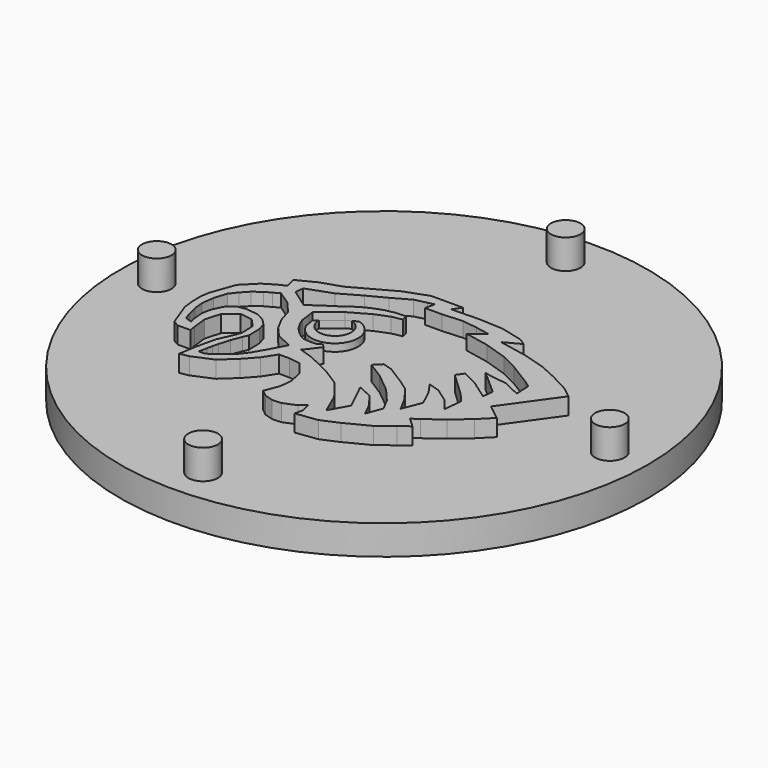
from build123d import *

# Parameters (mm, degrees)
F0_R      = 15.875
F1_DEPTH  = 1.778
F3_R      = 0.889
F4_DEPTH  = 1.778
F6_DEPTH  = 1.016
F8_DEPTH  = 0.889
F10_DEPTH = 0.762
F12_DEPTH = 0.4482
F14_DEPTH = 0.4214


with BuildPart() as f1:
    # F0 (on Top) → F1 (new body)
    with BuildSketch(Plane.XY):
        Circle(F0_R)
    extrude(amount=-F1_DEPTH)

    # F3 (on face) → F4 (join)
    with BuildSketch(Plane.XY):
        with Locations((0, 13.652203)):
            Circle(F3_R)
        with Locations((-13.659894, -0.015021)):
            Circle(F3_R)
        with Locations((0.062219, -13.682245)):
            Circle(F3_R)
        with Locations((13.674476, -0.124876)):
            Circle(F3_R)
    extrude(amount=F4_DEPTH)

    # F5 (on face) → F6 (join)
    with BuildSketch(Plane.XY):
        Polygon((-9.997153, -1.83525), (-9.927131, -2.552512), (-9.631853, -3.357332), (-9.364566, -4.058959), (-9.019321, -4.259424), (-8.235319, -4.254402), (-8.302191, -3.868135), (-8.403477, -2.990311), (-8.133378, -2.078724), (-7.424366, -1.504762), (-6.681591, -1.606049), (-6.208917, -2.112486), (-6.175154, -2.990311), (-6.411492, -3.564273), (-6.715354, -4.239522), (-6.985454, -5.421209), (-7.154267, -6.467846), (-6.614066, -6.366558), (-5.43238, -5.860121), (-4.588318, -5.083584), (-3.946831, -4.374572), (-3.440394, -3.598035), (-2.798907, -3.598035), (-2.123657, -3.699322), (-1.48217, -4.509622), (-1.313358, -5.353684), (-1.380883, -6.062696), (-1.718507, -6.94052), (-1.34712, -7.244383), (-0.806921, -7.413195), (-0.266721, -7.379433), (0.476054, -7.075571), (0.847441, -6.737946), (0.982491, -7.34567), (0.881203, -7.818345), (2.164178, -7.649533), (3.177052, -7.21062), (4.561313, -6.501608), (5.439138, -5.826359), (6.0131, -5.387446), (5.439138, -4.847247), (5.844288, -4.577147), (6.857162, -3.834372), (7.836274, -2.990311), (8.579048, -2.247536), (7.633699, -1.504762), (9.82826, 1.567624), (9.186773, 2.074061), (8.038848, 2.681786), (6.992212, 3.15446), (5.641712, 3.55961), (3.919826, 3.897235), (4.865176, 4.403672), (4.460026, 4.673772), (3.109527, 5.011396), (1.623978, 5.078922), (0, 5.040255), (0.326574, 5.517556), (0, 5.517556), (-0.548078, 5.517556), (-1.401239, 5.517556), (-1.575782, 5.517556), (-2.967719, 5.011396), (-4.250693, 4.302385), (-5.364855, 3.69466), (-6.580304, 3.28951), (-7.658069, 2.743233), (-7.506309, 2.110901), (-7.967449, 1.883261), (-8.606052, 1.500099), (-9.416352, 0.689799), (-9.927131, -0.749669), (-10.005792, -1.223414), align=None)
    extrude(amount=F6_DEPTH)

    # F7 (on face) → F8 (cut)
    with BuildSketch(Plane.XY.offset(1.016)):
        Polygon((5.581853, -0.147982), (6.69209, -0.92926), (6.772626, -0.296037), (5.300964, 1.007435), (5.721439, 0.902317), (6.688531, 0.776174), (7.760742, 0.271605), (7.716859, 1.187096), (7.350008, 1.455693), (5.951932, 2.31921), (4.965055, 2.812649), (3.566979, 3.264968), (2.127784, 3.552807), (2.950181, 4.169605), (2.086664, 4.334084), (1.182027, 4.457444), (-0.010449, 4.375204), (-1.038446, 4.375204), (-0.915087, 4.950882), (-1.285165, 4.868643), (-1.984203, 4.704163), (-3.0122, 4.128485), (-4.040197, 3.593927), (-5.273793, 2.894889), (-6.754109, 2.36033), (-6.808933, 1.851963), (-5.784622, 1.122316), (-5.655547, 1.052502), (-5.150102, 1.439019), (-4.436533, 1.892433), (-3.86419, 2.308682), (-3.314147, 2.643168), (-2.905331, 2.828993), (-2.377587, 3.022251), (-1.834977, 3.126313), (-1.44846, 3.156046), (-1.206535, 3.156046), (-1.120686, 2.812649), (-1.737484, 2.689289), (-2.559882, 2.36033), (-3.711239, 1.702412), (-4.903921, 0.765466), (-4.850941, 0.435567), (-4.777585, -0.161777), (-4.62924, -0.537306), (-4.401831, -0.92724), (-4.128506, -1.237627), (-3.792963, -1.499695), (-3.506867, -1.636587), (-3.127852, -1.677379), (-2.781168, -1.671464), (-2.477643, -1.504938), (-2.272042, -1.710537), (-2.929961, -2.574055), (-2.066443, -2.861894), (-0.627248, -3.560932), (0.400749, -4.21885), (1.264266, -5.329086), (1.839945, -6.644922), (2.455392, -5.52835), (1.621954, -3.821786), (2.505001, -4.218661), (3.100315, -5.022334), (3.467424, -5.766476), (3.824612, -4.823897), (3.44362, -4.09549), (2.703462, -3.231973), (1.593226, -2.327336), (0.606349, -1.710537), (1.017547, -1.299339), (1.593226, -1.463818), (2.580103, -2.080616), (3.36138, -2.615175), (3.978178, -3.437572), (4.471616, -4.34221), (4.91477, -3.206083), (4.472801, -2.251429), (3.977795, -1.544277), (4.676107, -1.765262), (5.50701, -2.348662), (6.09925, -3.082332), (6.214161, -1.986247), (5.746333, -1.422698), (4.307137, -0.065742), (4.594977, 0.345456), align=None)
    extrude(amount=-F8_DEPTH, mode=Mode.SUBTRACT)

    # F9 (on face) → F10 (cut)
    with BuildSketch(Plane.XY.offset(1.016)):
        Polygon((-9.527062, -1.762354), (-9.468843, -2.383346), (-9.319973, -2.986423), (-9.160768, -3.435944), (-8.758073, -3.567054), (-8.842357, -3.154993), (-8.886664, -2.65503), (-8.847852, -2.26691), (-8.750822, -1.956414), (-8.479138, -1.39364), (-8.0328, -1.024926), (-7.54765, -0.947302), (-6.810222, -1.024926), (-6.285619, -1.298313), (-5.929158, -1.654813), (-5.783168, -2.13993), (-5.75643, -2.964658), (-5.901129, -3.279696), (-6.128635, -3.871208), (-6.329618, -4.549786), (-6.411564, -4.876257), (-6.480787, -5.215013), (-6.538431, -5.494642), (-6.587563, -5.717657), (-6.208636, -5.701771), (-5.89814, -5.507711), (-5.02487, -4.809096), (-4.617345, -4.285133), (-4.132194, -3.450676), (-3.666451, -2.558), (-4.617345, -2.131068), (-5.160713, -1.510076), (-5.568238, -0.753242), (-5.801111, 0.022998), (-6.430078, 0.771524), (-7.25656, 1.3232), (-7.605868, 1.12914), (-7.993988, 0.915674), (-8.459732, 0.566366), (-8.847852, 0.15884), (-9.19716, -0.287498), (-9.430031, -1.024926), align=None)
    extrude(amount=-F10_DEPTH, mode=Mode.SUBTRACT)

    # F11 (on face) → F12 (join)
    with BuildSketch(Plane.XY.offset(0.127)):
        with BuildLine():
            Line((-3.711239, 1.702412), (-4.903921, 0.765466))
            ThreePointArc((-4.903921, 0.765466), (-2.685565, -0.46531), (-3.13556, 2.031371))
            Line((-3.13556, 2.031371), (-3.711239, 1.702412))
        make_face()
    extrude(amount=F12_DEPTH)

    # F13 (on face) → F14 (cut)
    with BuildSketch(Plane.XY.offset(0.5752)):
        with BuildLine():
            Line((-3.711239, 1.702412), (-4.67052, 0.948821))
            ThreePointArc((-4.67052, 0.948821), (-3.12231, 0.151799), (-3.423399, 1.866892))
            Line((-3.423399, 1.866892), (-3.711239, 1.702412))
        make_face()
    extrude(amount=-F14_DEPTH, mode=Mode.SUBTRACT)


solid = f1.part
